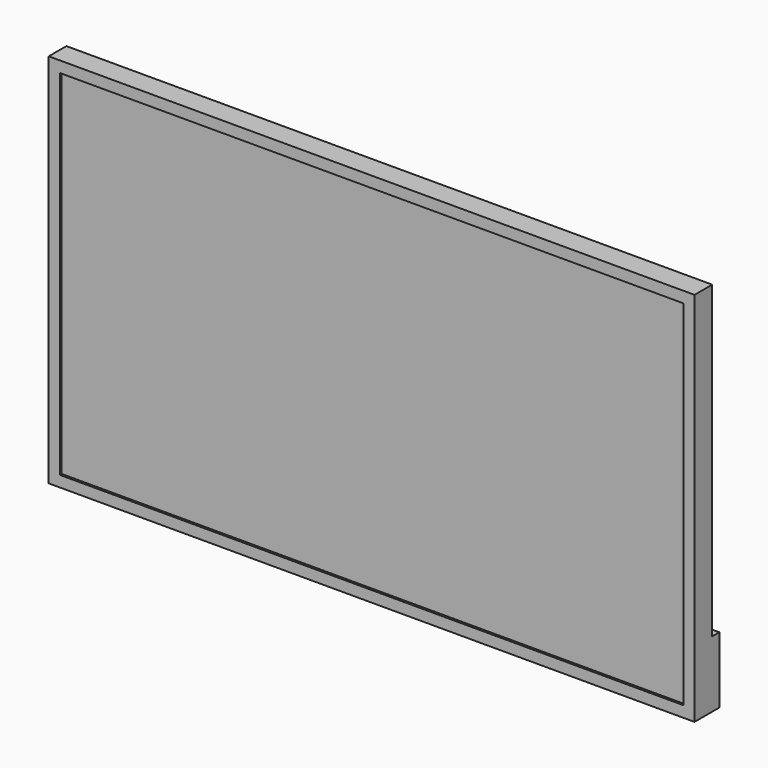
from build123d import *

# Parameters (mm, degrees)
F0_W     = 1460
F0_H     = 850
F1_DEPTH = 50
F2_W     = 1410
F2_H     = 800
F3_DEPTH = 5
F5_D     = 6.3
F5_DEPTH = 5
F5_TIP   = 1.8927109499
F4_W     = 1460
F4_H     = 150
F6_DEPTH = 20


with BuildPart() as f1:
    # F0 (on Front) → F1 (new body)
    with BuildSketch(Plane.XZ):
        Rectangle(F0_W, F0_H)
    extrude(amount=F1_DEPTH)

    # F2 (on face) → F3 (cut)
    with BuildSketch(Plane.XZ.offset(50)):
        Rectangle(F2_W, F2_H)
    extrude(amount=-F3_DEPTH, mode=Mode.SUBTRACT)

    # F5
    with Locations(Plane(origin=(0, 0, 0), x_dir=(-1, 0, 0), z_dir=(0, 1, 0))):
        with Locations((-150, 75), (150, 75), (150, -225), (-150, -225)):
            Hole(F5_D / 2, depth=F5_DEPTH)
            with Locations((0, 0, -(F5_DEPTH + F5_TIP / 2))):  # 118° drill point
                Cone(0, F5_D / 2, F5_TIP, mode=Mode.SUBTRACT)

    # F4 (on face) → F6 (join)
    with BuildSketch(Plane(origin=(0, 0, 0), x_dir=(-1, 0, 0), z_dir=(0, 1, 0))):
        with Locations((0, -350)):
            Rectangle(F4_W, F4_H)
    extrude(amount=F6_DEPTH)


solid = f1.part
